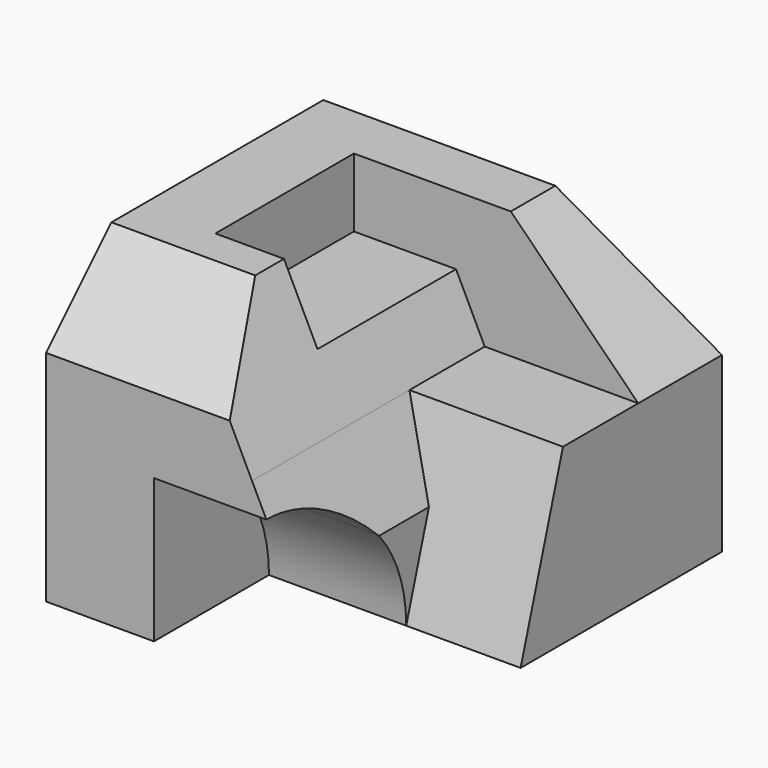
from build123d import *

# Parameters (mm, degrees)
F3_DEPTH  = 172
F4_DEPTH  = 150
F7_DEPTH  = 111
F8_DEPTH  = 163
F10_DEPTH = 42
F11_DEPTH = 89
F14_DEPTH = 110
F17_W     = 21
F17_H     = 53
F18_DEPTH = 21
F1_W      = 23
F1_H      = 42
F19_DEPTH = 18


with BuildPart() as f3:
    # F0 (on Front) → F3 (new body)
    with BuildSketch(Plane.XZ):
        Polygon((0, 92), (0, 0), (75, 0), (75, 28.440581), (63.021571, 53), (44, 92), align=None)
    extrude(amount=-F3_DEPTH)

    # F2 (on Right) → F4 (intersect)
    with BuildSketch(Plane.YZ):
        Polygon((0, 67), (0, 0), (121, 0), (121, 53), (106.029303, 92), (25, 92), align=None)
    extrude(amount=F4_DEPTH, mode=Mode.INTERSECT)


with BuildPart() as f7:
    # F6 (on offset) → F7 (new body)
    with BuildSketch(Plane.XZ.offset(-44)):
        Polygon((0, 92), (0, 0), (110, 0), (110, 53), (71, 92), align=None)
    extrude(amount=-F7_DEPTH)


with BuildPart() as f8_tool:
    # F2 (on Right) → F8 (new body)
    with BuildSketch(Plane.YZ):
        Polygon((0, 67), (0, 0), (121, 0), (121, 53), (106.029303, 92), (25, 92), align=None)
    extrude(amount=F8_DEPTH)


with BuildPart() as f3_1:
    add(f3.part)

    # F8: intersect by f8_tool
    add(f8_tool.part, mode=Mode.INTERSECT)

    # F9 (on face) → F10 (cut)
    with BuildSketch(Plane.YZ.offset(75)):
        with BuildLine():
            Line((0, 0), (44, 0))
            ThreePointArc((44, 0), (41.311037, 15.145899), (33.572807, 28.440581))
            Line((33.572807, 28.440581), (0, 28.440581))
            Line((0, 28.440581), (0, 0))
        make_face()
        with BuildLine():
            ThreePointArc((33.572807, 28.440581), (-41.311037, -15.145899), (44, 0))
            Line((44, 0), (0, 0))
            Line((0, 0), (0, 28.440581))
            Line((0, 28.440581), (33.572807, 28.440581))
        make_face()
    extrude(amount=-F10_DEPTH, mode=Mode.SUBTRACT)


with BuildPart() as f7_1:
    add(f7.part)

    # F8: intersect by f8_tool
    add(f8_tool.part, mode=Mode.INTERSECT)


with BuildPart() as f11:
    # F0 (on Front) → F11 (new body)
    with BuildSketch(Plane.XZ):
        Polygon((113.488927, 92), (44, 92), (63.021571, 53), (113.488927, 53), align=None)
    extrude(amount=-F11_DEPTH)


with BuildPart() as f7_2:
    add(f7_1.part)

    # F12: cut F11
    add(f11.part, mode=Mode.SUBTRACT)


with BuildPart() as f14:
    # F13 (on face) → F14 (new body)
    with BuildSketch(Plane.YZ.offset(110)):
        Polygon((44, 53), (44, 0), (60.203726, 53), align=None)
    extrude(amount=-F14_DEPTH)


with BuildPart() as f7_3:
    add(f7_2.part)

    # F15: cut F14
    add(f14.part, mode=Mode.SUBTRACT)


with BuildPart() as f3_2:
    add(f3_1.part)

    # F16: union F7
    add(f7_3.part)

    # F17 (on face) → F18 (cut)
    with BuildSketch(Plane.XY.offset(92)):
        with Locations((33.5, 62.5)):
            Rectangle(F17_W, F17_H)
        Polygon((71, 89), (44, 89), (44, 36), (84.379675, 36), (84.379675, 89), align=None)
    extrude(amount=-F18_DEPTH, mode=Mode.SUBTRACT)

    # F1 (on Top) → F19 (cut)
    with BuildSketch(Plane.XY):
        with Locations((11.5, 100)):
            Rectangle(F1_W, F1_H)
    extrude(amount=F19_DEPTH, mode=Mode.SUBTRACT)


solid = f3_2.part
